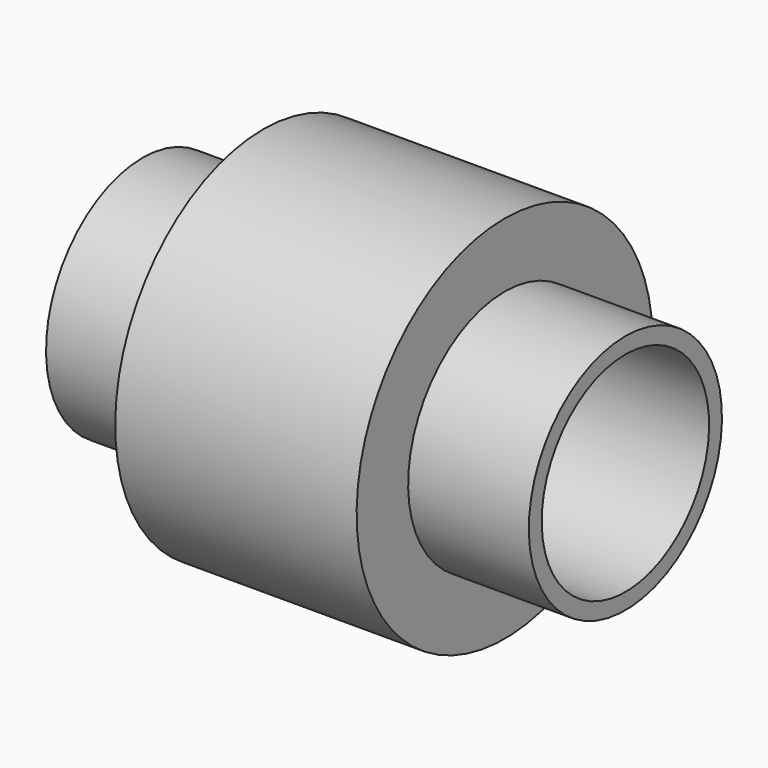
from build123d import *


with BuildPart() as f1:
    # F0 (on Front) → F1 (revolve)
    with BuildSketch(Plane.XZ):
        with BuildLine():
            Line((-30, 13), (-7.483315, 13))
            ThreePointArc((-7.483315, 13), (0, 15), (7.483315, 13))
            Line((7.483315, 13), (30, 13))
            Line((30, 13), (30, 15))
            Line((30, 15), (15, 15))
            Line((15, 15), (15, 23))
            Line((15, 23), (-15, 23))
            Line((-15, 23), (-15, 15))
            Line((-15, 15), (-30, 15))
            Line((-30, 15), (-30, 13))
        make_face()
    revolve(axis=Axis((-26.536044, 0, 0), (-1, 0, 0)))


solid = f1.part
